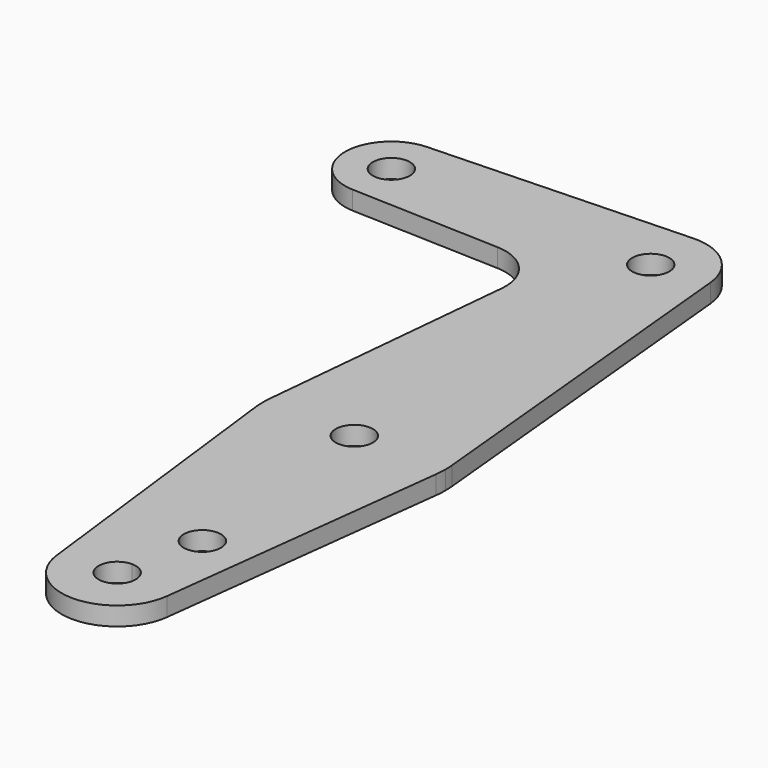
from build123d import *

# Parameters (mm, degrees)
F0_R     = 3.175
F1_DEPTH = 3.175
F2_R     = 8.1915


with BuildPart() as f1:
    # F0 (on Top) → F1 (new body)
    with BuildSketch(Plane.XY):
        with BuildLine():
            ThreePointArc((-15.5081209619, -65.37452), (-10.36179917, -75.1896860078), (0, -79.121))
            ThreePointArc((0, -79.121), (10.36179917, -75.1896860078), (15.5081209619, -65.37452))
            ThreePointArc((15.5081209619, -65.37452), (15.5927547044, -64.4389577876), (15.621, -63.5))
            ThreePointArc((15.621, -63.5), (15.602952529, -62.7493247194), (15.5488518178, -62.000384))
            ThreePointArc((15.5488518178, -62.000384), (0, -47.879), (-15.5488518178, -62.000384))
            ThreePointArc((-15.5488518178, -62.000384), (-15.6198619711, -63.6885550396), (-15.5081209619, -65.37452))
        make_face()
        with BuildLine():
            ThreePointArc((0, -66.675), (-2.2450640303, -61.2549359697), (3.175, -63.5))
            ThreePointArc((3.175, -63.5), (2.2450640303, -65.7450640303), (0, -66.675))
        make_face(mode=Mode.SUBTRACT)
        with BuildLine():
            ThreePointArc((15.5081209619, -65.37452), (10.36179917, -75.1896860078), (0, -79.121))
            Line((0, -79.121), (0, -100.0125))
            Line((0, -100.0125), (0, -104.775))
            ThreePointArc((0, -104.775), (6.7351920908, -107.5648079092), (9.525, -114.3))
            ThreePointArc((9.525, -114.3), (9.5077772588, -114.8725352363), (9.4561713182, -115.443))
            Line((9.4561713182, -115.443), (15.5081209619, -65.37452))
        make_face()
        with BuildLine():
            ThreePointArc((6.35, -100.0125), (3.175, -103.1875), (0, -100.0125))
            ThreePointArc((0, -100.0125), (3.175, -96.8375), (6.35, -100.0125))
        make_face(mode=Mode.SUBTRACT)
        with BuildLine():
            Line((0, -100.0125), (0, -79.121))
            ThreePointArc((0, -79.121), (-10.36179917, -75.1896860078), (-15.5081209619, -65.37452))
            Line((-15.5081209619, -65.37452), (-9.4561713182, -115.443))
            ThreePointArc((-9.4561713182, -115.443), (-7.1278573218, -107.9818297744), (0, -104.775))
            Line((0, -104.775), (0, -100.0125))
        make_face()
        with BuildLine():
            ThreePointArc((9.525, -114.3), (6.7351920908, -107.5648079092), (0, -104.775))
            ThreePointArc((0, -104.775), (-7.1278573218, -107.9818297744), (-9.4561713182, -115.443))
            ThreePointArc((-9.4561713182, -115.443), (0, -123.825), (9.4561713182, -115.443))
            ThreePointArc((9.4561713182, -115.443), (9.5077772588, -114.8725352363), (9.525, -114.3))
        make_face()
        with BuildLine():
            ThreePointArc((3.175, -114.3), (-2.2450640303, -116.5450640303), (0, -111.125))
            ThreePointArc((0, -111.125), (2.2450640303, -112.0549359697), (3.175, -114.3))
        make_face(mode=Mode.SUBTRACT)
        with BuildLine():
            Line((-10.4524001899, -9.157542126), (-15.5488518178, -62.000384))
            ThreePointArc((-15.5488518178, -62.000384), (0, -47.879), (15.5488518178, -62.000384))
            Line((15.5488518178, -62.000384), (9.481007206, 0.9144))
            ThreePointArc((9.481007206, 0.9144), (9.5139954445, 0.4577288296), (9.525, 0))
            ThreePointArc((9.525, 0), (6.6138273175, -6.8544083052), (-0.3401786278, -9.5189234423))
            Line((-0.3401786278, -9.5189234423), (-10.4524001899, -9.157542126))
        make_face()
        with BuildLine():
            Line((-9.481007206, 0.9144), (-10.4524001899, -9.157542126))
            Line((-10.4524001899, -9.157542126), (-0.3401786278, -9.5189234423))
            ThreePointArc((-0.3401786278, -9.5189234423), (-7.164320087, -6.2767939819), (-9.481007206, 0.9144))
        make_face()
        with BuildLine():
            Line((-44.7334821429, -7.9324362036), (-10.4524001899, -9.157542126))
            Line((-10.4524001899, -9.157542126), (-9.481007206, 0.9144))
            ThreePointArc((-9.481007206, 0.9144), (-6.5286581491, 6.9355784022), (-0.3401783155, 9.5189234535))
            Line((-0.3401783155, 9.5189234535), (-44.7334821429, 7.9324362036))
            ThreePointArc((-44.7334821429, 7.9324362036), (-38.9384772185, 5.7120069047), (-36.5125, 0))
            ThreePointArc((-36.5125, 0), (-38.9384772185, -5.7120069047), (-44.7334821429, -7.9324362036))
        make_face()
        with BuildLine():
            ThreePointArc((9.525, 0), (9.5139954445, 0.4577288296), (9.481007206, 0.9144))
            ThreePointArc((9.481007206, 0.9144), (6.2767940994, 7.164319984), (-0.3401783155, 9.5189234535))
            ThreePointArc((-0.3401783155, 9.5189234535), (-6.5286581491, 6.9355784022), (-9.481007206, 0.9144))
            ThreePointArc((-9.481007206, 0.9144), (-7.164320087, -6.2767939819), (-0.3401786278, -9.5189234423))
            ThreePointArc((-0.3401786278, -9.5189234423), (6.6138273175, -6.8544083052), (9.525, 0))
        make_face()
        Circle(F0_R, mode=Mode.SUBTRACT)
        with BuildLine():
            ThreePointArc((-44.7334821429, 7.9324362036), (-52.3875, 0), (-44.7334821429, -7.9324362036))
            ThreePointArc((-44.7334821429, -7.9324362036), (-38.9384772185, -5.7120069047), (-36.5125, 0))
            ThreePointArc((-36.5125, 0), (-38.9384772185, 5.7120069047), (-44.7334821429, 7.9324362036))
        make_face()
        with Locations((-44.45, 0)):
            Circle(F0_R, mode=Mode.SUBTRACT)
    extrude(amount=F1_DEPTH)

    # F2
    f2_edges = [f1.edges().sort_by_distance(p)[0] for p in [
        (-10.4524, -9.157542, 1.5875),
    ]]
    fillet(f2_edges, radius=F2_R)


solid = f1.part
